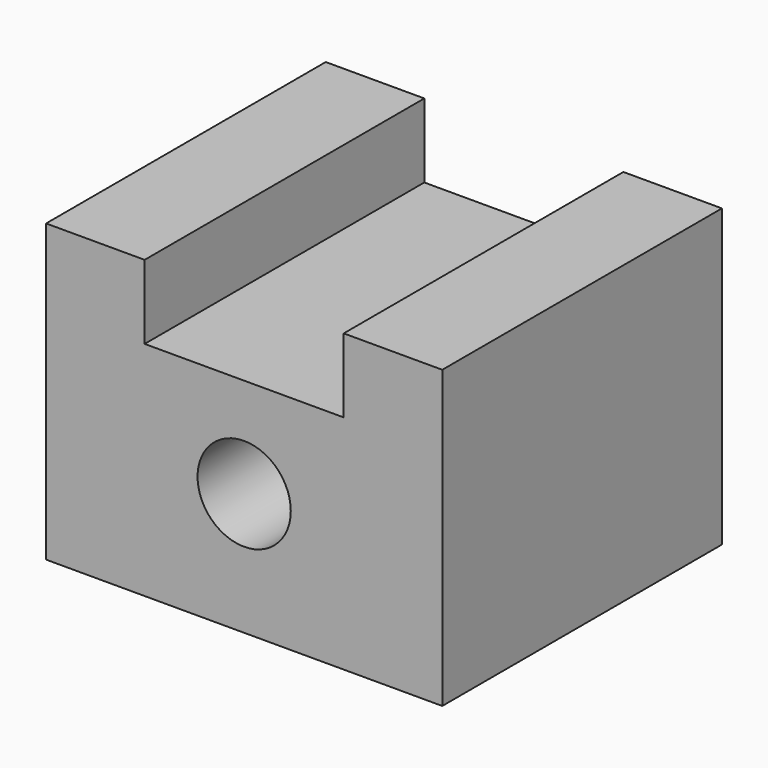
from build123d import *

# Parameters (mm, degrees)
F0_W     = 34
F0_H     = 30
F1_DEPTH = 25.4
F2_R     = 4
F3_DEPTH = 30.001
F4_W     = 17.084244
F4_H     = 30
F5_DEPTH = 6.35


with BuildPart() as f1:
    # F0 (on Top) → F1 (new body)
    with BuildSketch(Plane.XY):
        Rectangle(F0_W, F0_H)
    extrude(amount=F1_DEPTH)

    # F2 (on face) → F3 (cut, through all)
    with BuildSketch(Plane.XZ.offset(15)):
        with Locations((0, 10.498762)):
            Circle(F2_R)
    extrude(amount=-F3_DEPTH, mode=Mode.SUBTRACT)

    # F4 (on face) → F5 (cut)
    with BuildSketch(Plane.XY.offset(25.4)):
        Rectangle(F4_W, F4_H)
    extrude(amount=-F5_DEPTH, mode=Mode.SUBTRACT)


solid = f1.part
